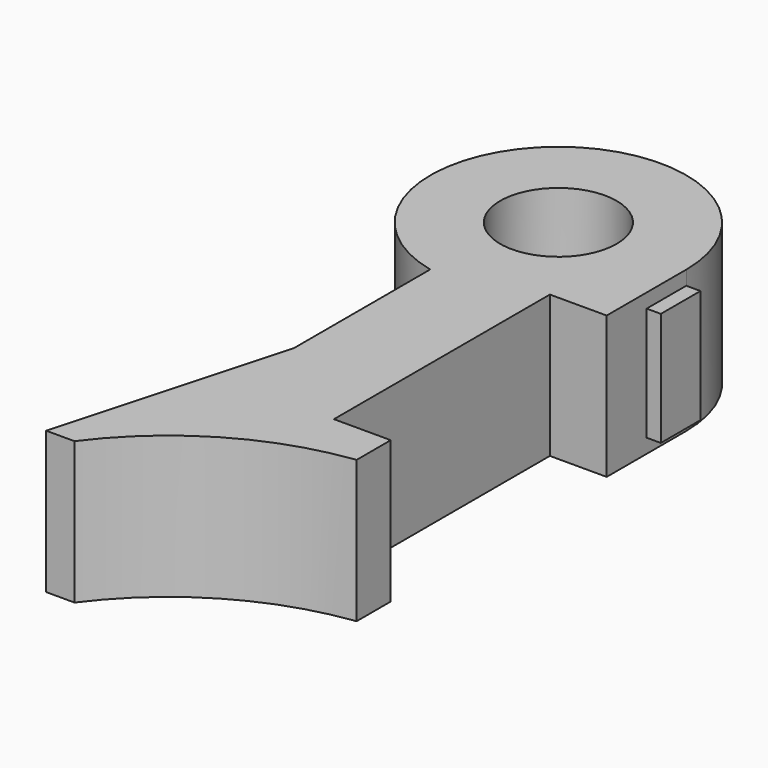
from build123d import *

# Parameters (mm, degrees)
SKETCH_R     = 4.1
PAD_DEPTH    = 10
SKETCH001_W  = 3.486151
SKETCH001_H  = 8
PAD001_DEPTH = 1


with BuildPart() as part:
    # Sketch → Pad (new body)
    with BuildSketch(Plane.XY):
        with BuildLine():
            Line((-48.388943, 45.786089), (-48.388943, 33.786089))
            Line((-48.388943, 33.786089), (-52.887429, 17.610197))
            Line((-52.887429, 17.610197), (-50.887429, 17.610197))
            ThreePointArc((-37.388943, 25.561053), (-44.951067, 22.965687), (-50.887429, 17.610197))
            Line((-37.388943, 28.561053), (-37.388943, 25.561053))
            Line((-41.388943, 28.561053), (-37.388943, 28.561053))
            Line((-41.388943, 47.561053), (-41.388943, 28.561053))
            Line((-37.388943, 47.561053), (-41.388943, 47.561053))
            Line((-37.388943, 54.561053), (-37.388943, 47.561053))
            ThreePointArc((-37.388943, 54.561053), (-52.001429, 61.596677), (-48.388943, 45.786089))
        make_face()
        with Locations((-46.388943, 54.561053)):
            Circle(SKETCH_R, mode=Mode.SUBTRACT)
    extrude(amount=PAD_DEPTH)

    # Sketch001 → Pad001 (new body)
    with BuildSketch(Plane.YZ.offset(-37.388943)):
        with Locations((52.817977, 5)):
            Rectangle(SKETCH001_W, SKETCH001_H)
    extrude(amount=PAD001_DEPTH)


solid = part.part
